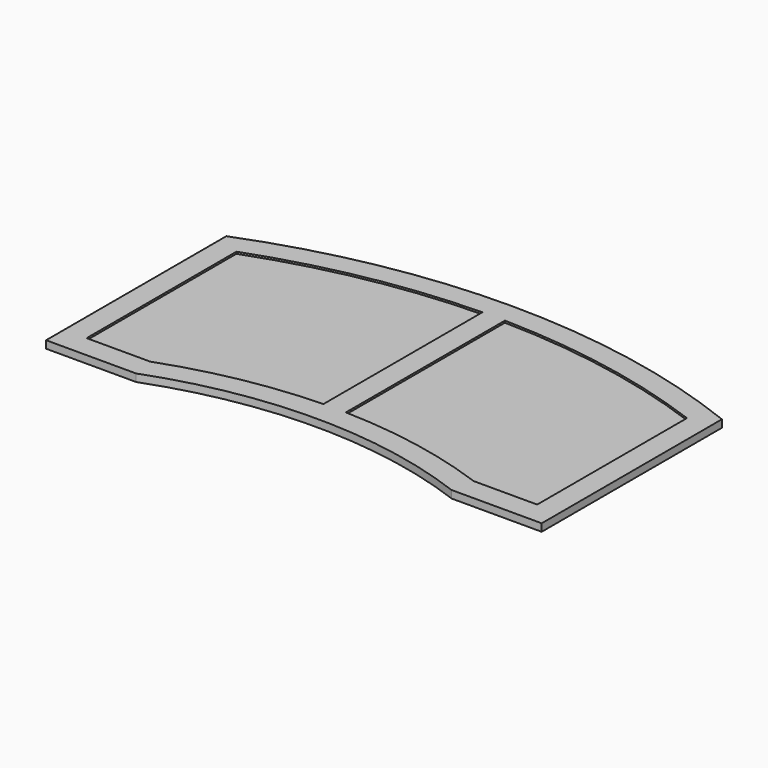
from build123d import *

# Parameters (mm, degrees)
F1_DEPTH = 25.4
F3_DEPTH = 6.35


with BuildPart() as f1:
    # F0 (on Top) → F1 (new body)
    with BuildSketch(Plane.XY):
        with BuildLine():
            Line((0, 762), (0, 0))
            Line((0, 0), (304.8, 0))
            ThreePointArc((304.8, 0), (838.2, 96.393458), (1371.6, 0))
            Line((1371.6, 0), (1676.4, 0))
            Line((1676.4, 0), (1676.4, 762))
            ThreePointArc((1676.4, 762), (838.2, 921.214454), (0, 762))
        make_face()
    extrude(amount=F1_DEPTH)

    # F2 (on face) → F3 (cut)
    with BuildSketch(Plane.XY.offset(25.4)):
        with BuildLine():
            Line((1385.197187, 76.200001), (1600.199999, 76.200001))
            Line((1600.199999, 76.200001), (1600.199999, 709.47867))
            ThreePointArc((1600.199999, 709.47867), (1243.921895, 807.449657), (876.299999, 844.68598))
            Line((876.299999, 844.68598), (876.299999, 172.139823))
            ThreePointArc((876.299999, 172.139823), (1134.655379, 144.892822), (1385.197187, 76.200001))
        make_face()
        with BuildLine():
            Line((76.200001, 709.47867), (76.200001, 76.200001))
            Line((76.200001, 76.200001), (291.202813, 76.200001))
            ThreePointArc((291.202813, 76.200001), (541.744621, 144.892822), (800.100001, 172.139823))
            Line((800.100001, 172.139823), (800.100001, 844.68598))
            ThreePointArc((800.100001, 844.68598), (432.478105, 807.449657), (76.200001, 709.47867))
        make_face()
    extrude(amount=-F3_DEPTH, mode=Mode.SUBTRACT)


solid = f1.part
